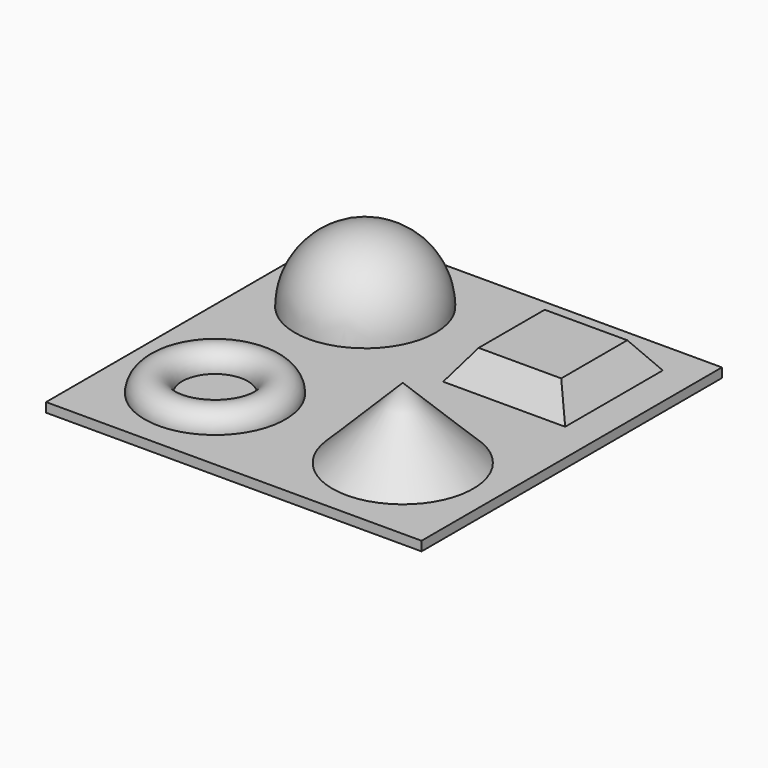
from build123d import *

# Parameters (mm, degrees)
F0_W     = 200
F0_H     = 200
F1_DEPTH = 5
F3_ANGLE = 180
F4_W     = 65
F4_H     = 65
F5_DEPTH = 15
F5_TAPER = 35


with BuildPart() as f1:
    # F0 (on Top) → F1 (new body)
    with BuildSketch(Plane.XY):
        Rectangle(F0_W, F0_H)
    extrude(amount=-F1_DEPTH)

    # F2 (on Top) → F3 (revolve)
    with BuildSketch(Plane.XY):
        with BuildLine():
            Line((-87.5, 50), (-12.5, 50))
            ThreePointArc((-12.5, 50), (-50, 87.5), (-87.5, 50))
        make_face()
    revolve(axis=Axis((-50, 50, 0), (1, 0, 0)), revolution_arc=F3_ANGLE)

    # F4 (on Top) → F5 (join)
    with BuildSketch(Plane.XY):
        with Locations((50, 50)):
            Rectangle(F4_W, F4_H)
    extrude(amount=F5_DEPTH, taper=F5_TAPER)

    # F7 (on plane+point) → F8 (revolve)
    with BuildSketch(Plane.XZ.offset(50)):
        with BuildLine():
            Line((-87.5, 0), (-67.5, 0))
            ThreePointArc((-67.5, 0), (-77.5, 10), (-87.5, 0))
        make_face()
    revolve(axis=Axis((-50, -50, -2.7900552377), (0, 0, -1)))

    # F9 (on plane+point) → F10 (revolve)
    with BuildSketch(Plane.XZ.offset(50)):
        Polygon((50, 37.5), (12.5, 0), (50, 0), align=None)
    revolve(axis=Axis((50, -50, 18.75), (0, 0, 1)))


solid = f1.part
